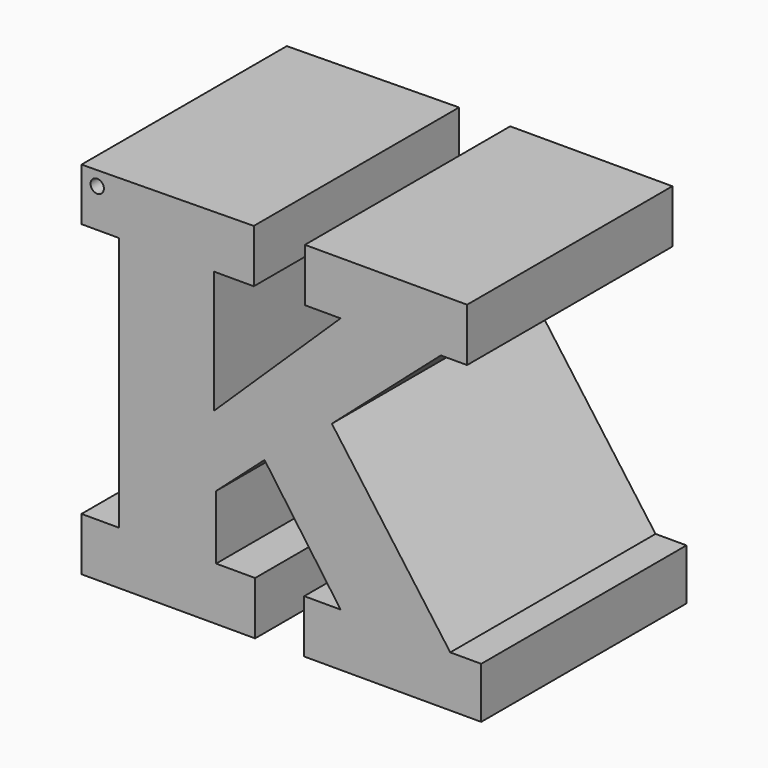
from build123d import *

# Parameters (mm, degrees)
F0_R     = 0.593612
F1_DEPTH = 22.86


with BuildPart() as f1:
    # F0 (on Front) → F1 (new body)
    with BuildSketch(Plane.XZ):
        Polygon((-45.89669, 6.93236), (-61.244421, 6.752504), (-61.244421, 2.076243), (-57.887103, 2.076243), (-57.887103, -20.645589), (-61.244421, -20.645589), (-61.244421, -25.381802), (-45.776788, -25.381802), (-45.776788, -20.645589), (-49.254008, -20.645589), (-49.254008, -14.950142), (-44.937458, -11.113211), (-38.162876, -20.645589), (-41.400287, -20.645589), (-41.400287, -25.381802), (-25.632896, -25.381802), (-25.632896, -20.825444), (-28.390689, -20.825444), (-38.942251, -6.317046), (-29.230019, 2.196147), (-26.891887, 2.196147), (-26.891887, 6.93236), (-41.340336, 6.93236), (-41.340336, 2.196147), (-38.162876, 2.196147), (-49.433865, -8.715129), (-49.433865, 2.196147), (-45.89669, 2.196147), align=None)
        with Locations((-59.842687, 5.508977)):
            Circle(F0_R, mode=Mode.SUBTRACT)
    extrude(amount=F1_DEPTH)


solid = f1.part
